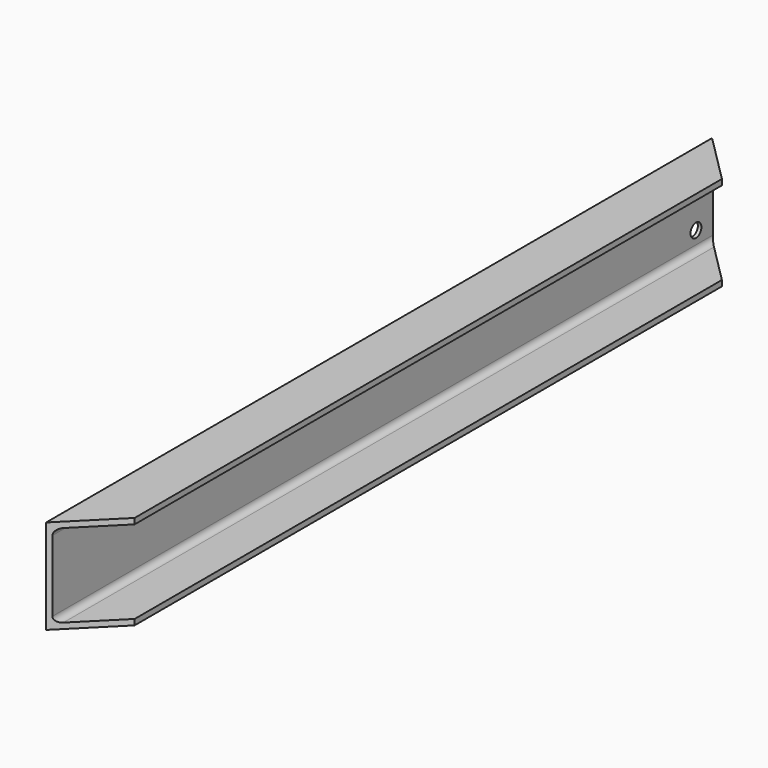
from build123d import *

# Parameters (mm, degrees)
F1_DEPTH = 1100
F3_DEPTH = 125.001
F4_R     = 9
F5_DEPTH = 65.001


with BuildPart() as f1:
    # F0 (on Front) → F1 (new body)
    with BuildSketch(Plane.XZ):
        with BuildLine():
            Line((-25.076735, 63.545803), (-25.076735, -61.454197))
            Line((-25.076735, -61.454197), (39.923265, -61.454197))
            Line((39.923265, -61.454197), (39.923265, -53.954197))
            Line((39.923265, -53.954197), (-12.376735, -53.954197))
            ThreePointArc((-12.376735, -53.954197), (-18.033589, -51.611052), (-20.376735, -45.954197))
            Line((-20.376735, -45.954197), (-20.376735, 48.045803))
            ThreePointArc((-20.376735, 48.045803), (-18.033589, 53.702657), (-12.376735, 56.045803))
            Line((-12.376735, 56.045803), (39.923265, 56.045803))
            Line((39.923265, 56.045803), (39.923265, 63.545803))
            Line((39.923265, 63.545803), (-25.076735, 63.545803))
        make_face()
    extrude(amount=F1_DEPTH)

    # F2 (on face) → F3 (cut, through all)
    with BuildSketch(Plane.XY.offset(63.545803)):
        Polygon((-25.076735, 0), (39.923265, -65), (39.923265, 0), align=None)
        Polygon((-25.076735, -1100), (39.923265, -1100), (39.923265, -1035), align=None)
    extrude(amount=-F3_DEPTH, mode=Mode.SUBTRACT)

    # F4 (on face) → F5 (cut, through all)
    with BuildSketch(Plane(origin=(-25.076735, 0, 0), x_dir=(0, -1, 0), z_dir=(-1, 0, 0))):
        with Locations((32.5, 31.045803)):
            Circle(F4_R)
        with Locations((32.5, -28.954197)):
            Circle(F4_R)
    extrude(amount=-F5_DEPTH, mode=Mode.SUBTRACT)


solid = f1.part
